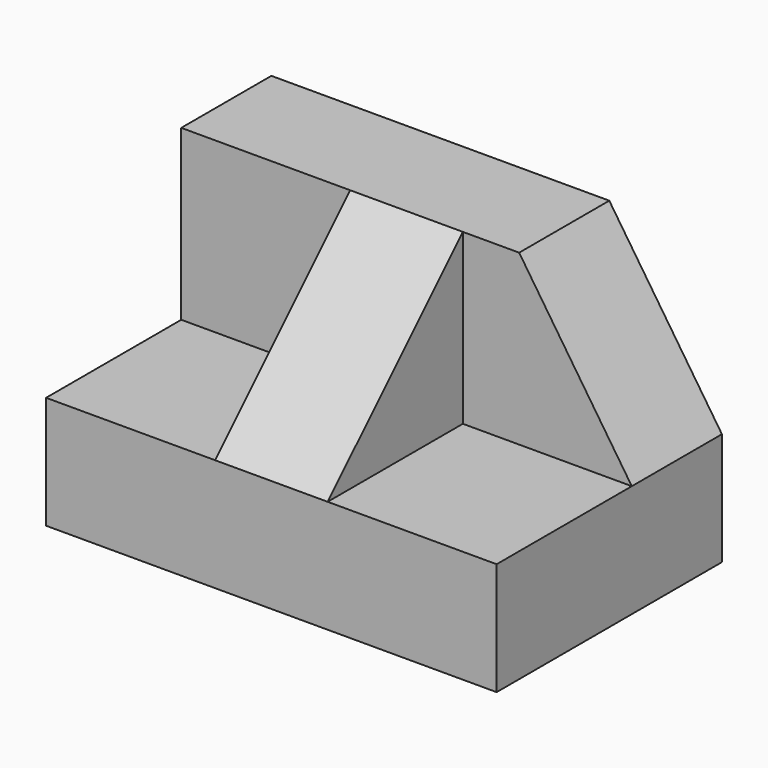
from build123d import *

# Parameters (mm, degrees)
F0_W     = 50.8
F0_H     = 31.75
F1_DEPTH = 31.75
F2_W     = 19.05
F2_H     = 19.05
F3_DEPTH = 19.05
F5_DEPTH = 19.05
F7_DEPTH = 12.7


with BuildPart() as f1:
    # F0 (on Front) → F1 (new body)
    with BuildSketch(Plane.XZ):
        with Locations((-25.4, 15.875)):
            Rectangle(F0_W, F0_H)
    extrude(amount=F1_DEPTH)

    # F2 (on face) → F3 (cut)
    with BuildSketch(Plane.XZ.offset(31.75)):
        with Locations((-41.275, 22.225)):
            Rectangle(F2_W, F2_H)
        with Locations((-9.525, 22.225)):
            Rectangle(F2_W, F2_H)
    extrude(amount=-F3_DEPTH, mode=Mode.SUBTRACT)

    # F4 (on face) → F5 (cut)
    with BuildSketch(Plane.YZ.offset(-19.05)):
        Polygon((-31.75, 12.7), (-12.7, 31.75), (-31.75, 31.75), align=None)
    extrude(amount=-F5_DEPTH, mode=Mode.SUBTRACT)

    # F6 (on face) → F7 (cut)
    with BuildSketch(Plane.XZ.offset(12.7)):
        Polygon((0, 31.75), (-12.7, 31.75), (0, 12.7), align=None)
    extrude(amount=-F7_DEPTH, mode=Mode.SUBTRACT)


solid = f1.part
